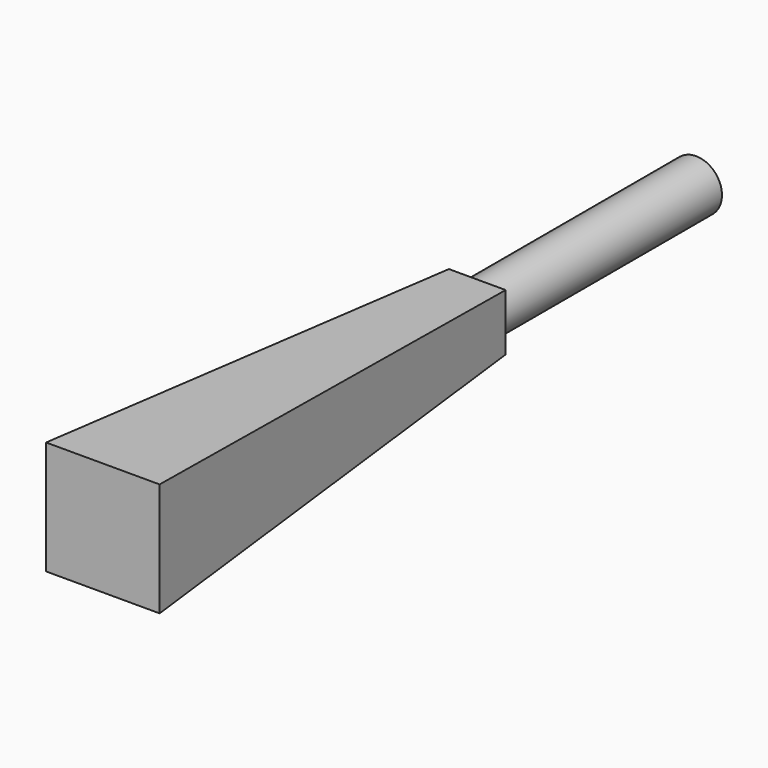
from build123d import *

# Parameters (mm, degrees)
F0_W     = 22
F0_H     = 22
F2_W     = 11
F2_H     = 11
F4_R     = 5.011147
F5_DEPTH = 53


with BuildPart() as f3:
    # F0 (on Front) → F3 section 0
    with BuildSketch(Plane.XZ):
        Rectangle(F0_W, F0_H)
    # F2 (on offset) → F3 section 1
    with BuildSketch(Plane.XZ.offset(-90.7)):
        Rectangle(F2_W, F2_H)
    loft()

    # F4 (on face) → F5 (join)
    with BuildSketch(Plane(origin=(0, 90.7, 0), x_dir=(-1, 0, 0), z_dir=(0, 1, 0))):
        Circle(F4_R)
    extrude(amount=F5_DEPTH)


solid = f3.part
